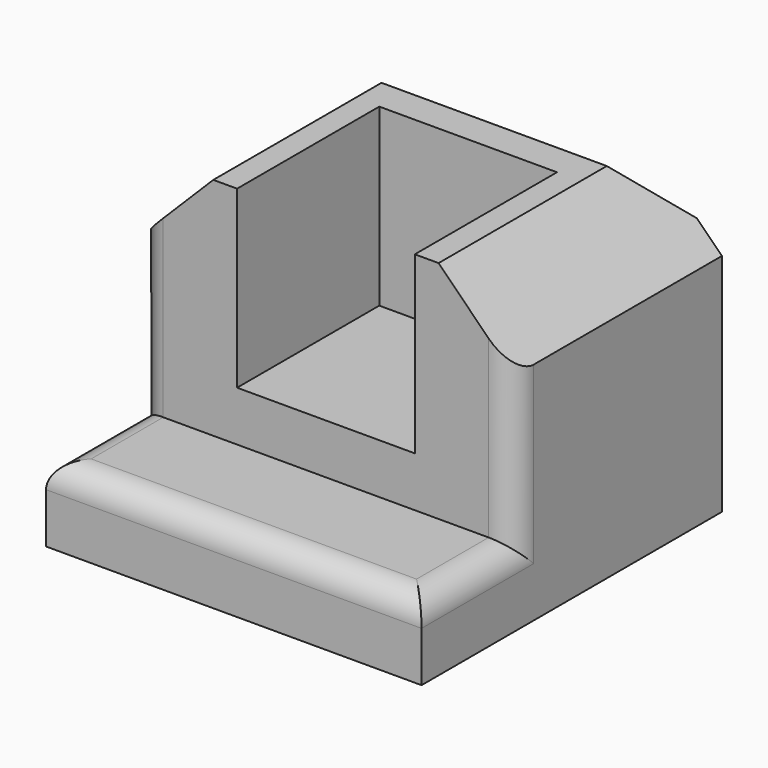
from build123d import *

# Parameters (mm, degrees)
SKETCH_W        = 15
SKETCH_H        = 15
PAD_DEPTH       = 12
SKETCH001_W     = 7.1
SKETCH001_H     = 7.1
POCKET_DEPTH    = 7
POCKET001_DEPTH = 9
CHAMFER_SIZE    = 2
CHAMFER001_SIZE = 3
FILLET_R        = 1


with BuildPart() as part:
    # Sketch → Pad (new body)
    with BuildSketch(Plane.XY):
        Rectangle(SKETCH_W, SKETCH_H)
    extrude(amount=PAD_DEPTH)

    # Sketch001 (on Face6 of Pad) → Pocket (cut)
    with BuildSketch(Plane.XY.offset(12)):
        with Locations((0, 0.650893)):
            Rectangle(SKETCH001_W, SKETCH001_H)
    extrude(amount=-POCKET_DEPTH, mode=Mode.SUBTRACT)

    # Sketch002 (on Face5 of Pocket) → Pocket001 (cut)
    with BuildSketch(Plane.XY.offset(12)):
        Polygon((-3.55, -2.899107), (-7.5, -2.899107), (-7.5, -7.5), (7.5, -7.5), (7.5, -2.899107), (3.55, -2.899107), align=None)
    extrude(amount=-POCKET001_DEPTH, mode=Mode.SUBTRACT)

    # Chamfer
    chamfer_edges = [part.edges().sort_by_distance(p)[0] for p in [
        (0, 7.5, 12),
    ]]
    chamfer(chamfer_edges, length=CHAMFER_SIZE)

    # Chamfer001
    chamfer001_edges = [part.edges().sort_by_distance(p)[0] for p in [
        (-7.5, 1.300446, 12),
        (7.5, 1.300446, 12),
    ]]
    chamfer(chamfer001_edges, length=CHAMFER001_SIZE)

    # Fillet
    fillet_edges = [part.edges().sort_by_distance(p)[0] for p in [
        (7.5, -2.899107, 6),
        (-7.5, -2.899107, 6),
        (-7.5, -5.199554, 3),
        (0, -7.5, 3),
        (7.5, -5.199554, 3),
    ]]
    fillet(fillet_edges, radius=FILLET_R)


solid = part.part
